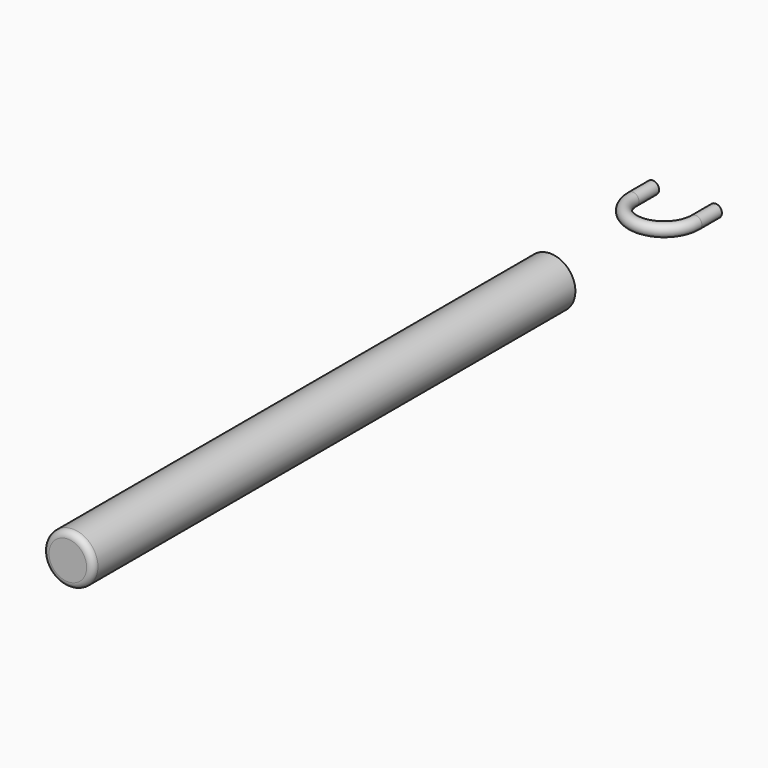
from build123d import *

# Parameters (mm, degrees)
F0_R     = 3.175
F3_R     = 12.6746
F4_DEPTH = 304.8
F5_T     = -1.5875
F6_R     = 3.175


with BuildPart() as f2:
    # F2: sweep along a path in F1
    with BuildLine(Plane.XY) as f2_path:
        Line((0, 0), (0, -12.7))
        ThreePointArc((0, -12.7), (15.875, -28.575), (31.75, -12.7))
        Line((31.75, -12.7), (31.75, 0))
    # F0 (on Front) → F2 (sweep)
    with BuildSketch(Plane.XZ):
        Circle(F0_R)
    sweep(path=f2_path.line)


with BuildPart() as f4:
    # F3 (on Front) → F4 (new body)
    with BuildSketch(Plane.XZ):
        with Locations((-51.812302, -58.852494)):
            Circle(F3_R)
    extrude(amount=F4_DEPTH)

    # F5
    f5_openings = [f4.faces().sort_by_distance(p)[0] for p in [
        (-51.812302, 0, -58.852494),
    ]]
    offset(amount=F5_T, openings=f5_openings)

    # F6
    f6_edges = [f4.edges().sort_by_distance(p)[0] for p in [
        (-64.486902, -304.8, -58.852494),
    ]]
    fillet(f6_edges, radius=F6_R)


solid = Compound([f2.part, f4.part])
